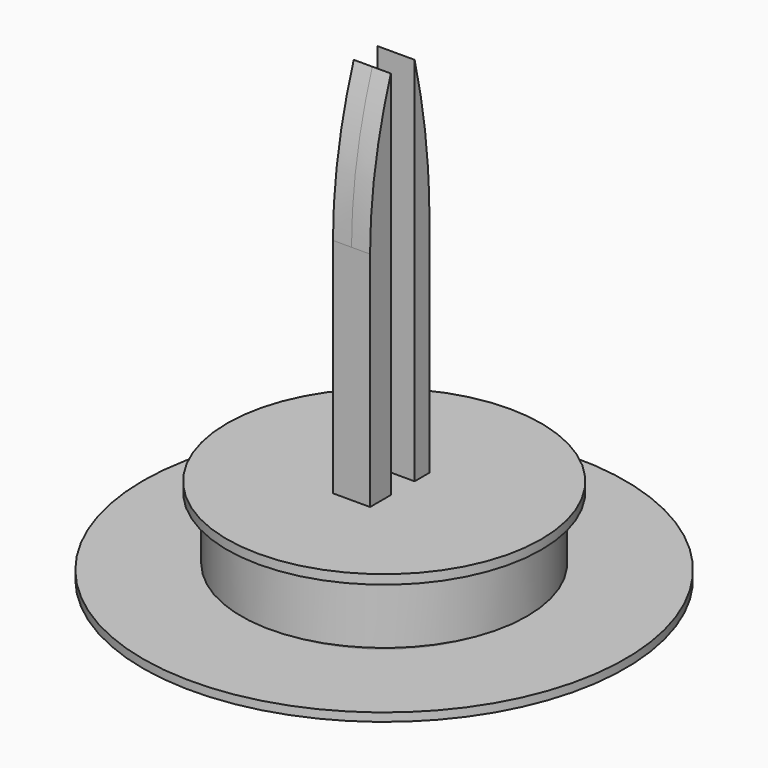
from build123d import *

# Parameters (mm, degrees)
CHAMFER001_SIZE = 1
PAD_DEPTH       = 5


with BuildPart() as body001:
    # Sketch010 (on XZ_Plane001 of Origin002) → Revolution (revolve)
    with BuildSketch(Plane.XZ):
        Polygon((17.5, 17), (17.5, 0), (22.5, 0), (23.25, 1), (30.25, 1), (31, 0), (36, 0), (36, 17), (32, 17), (31.25, 16), (23.25, 16), (22.5, 17), align=None)
    revolve(axis=Axis((0, 0, 0), (0, 0, 1)))


with BuildPart() as body002:
    # Sketch008 (on XZ_Plane002 of Origin004) → Revolution002 (revolve)
    with BuildSketch(Plane.XZ):
        Polygon((0, 0), (-14.5, 0), (-14.5, 16), (-17.5, 16), (-17.5, 0), (-22.5, 0), (-22.5, -2.5), (0, -2.5), align=None)
    revolve(axis=Axis((0, 0, 0), (0, 0, 1)))

    # Chamfer001
    chamfer001_edges = [body002.edges().sort_by_distance(p)[0] for p in [
        (14.5, 0, 0),
    ]]
    chamfer(chamfer001_edges, length=CHAMFER001_SIZE)

    # Sketch009 (on XZ_Plane002 of Origin004) → Revolution003 (revolve)
    with BuildSketch(Plane.XZ):
        Polygon((-22.5, 0), (-36.2047, -1.5), (-65, -1.5), (-65, -3.75), (0, -3.75), (0, -2.5), (-22.5, -2.5), align=None)
    revolve(axis=Axis((0, 0, 0), (0, 0, 1)))


with BuildPart() as body:
    # Sketch (on XZ_Plane of Origin) → Revolution004 (revolve)
    with BuildSketch(Plane.XZ):
        Polygon((36, 17), (36, 0), (38.5, 0), (38.5, 17), (42.330734, 17), (42.330734, 19.5), (0, 19.5), (0, 17), align=None)
    revolve(axis=Axis((0, 0, 0), (0, 0, 1)))

    # Sketch011 (on YZ_Plane of Origin) → Pad (new body, symmetric)
    with BuildSketch(Plane.YZ):
        with BuildLine():
            Line((-4, 119.5), (-4, 19.5))
            Line((-4, 19.5), (-11, 19.5))
            Line((-11, 19.5), (-11, 79.5))
            add(Edge.make_bspline(
                [(-11, 79.5), (-11, 99.5), (-4, 119.5)],
                knots=[0, 0, 0, 1, 1, 1], degree=2))
        make_face()
        with BuildLine():
            Line((4, 119.5), (4, 19.5))
            Line((4, 19.5), (9, 19.5))
            Line((9, 19.5), (9, 79.5))
            add(Edge.make_bspline(
                [(4, 119.5), (9, 99.5), (9, 79.5)],
                knots=[0, 0, 0, 1, 1, 1], degree=2))
        make_face()
    extrude(amount=PAD_DEPTH, both=True)


solid = Compound([body001.part, body002.part, body.part])
